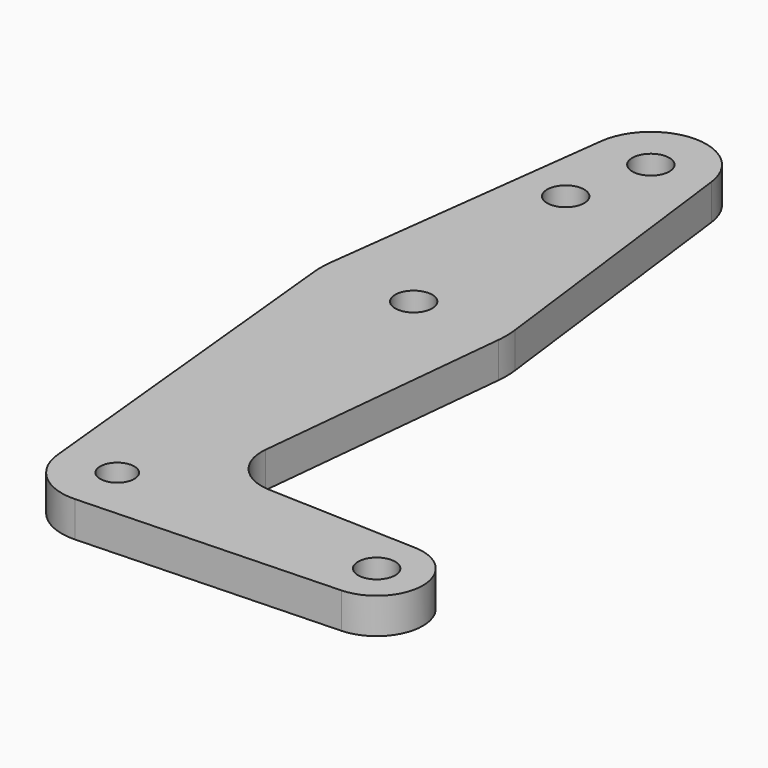
from build123d import *

# Parameters (mm, degrees)
F0_R     = 3.175
F0_R_2   = 2.9230539493
F1_DEPTH = 3.048
F2_DEPTH = 3.048


with BuildPart() as f1:
    # F0 (on Top) → F1 (new body)
    with BuildSketch(Plane.XY):
        with BuildLine():
            ThreePointArc((44.7370962, -7.906889539), (50.1452989497, -5.4922578493), (52.3621, 0))
            ThreePointArc((52.3621, 0), (50.1452989497, 5.4922578493), (44.7370962, 7.906889539))
            ThreePointArc((44.7370962, 7.906889539), (36.5379, 0), (44.7370962, -7.906889539))
        make_face()
        with Locations((44.45, 0)):
            Circle(F0_R, mode=Mode.SUBTRACT)
        with BuildLine():
            ThreePointArc((44.7370962, -7.906889539), (36.5379, 0), (44.7370962, 7.906889539))
            Line((44.7370962, 7.906889539), (18.9619893431, 8.8427740226))
            ThreePointArc((18.9619893431, 8.8427740226), (13.2586380582, 11.5624486569), (11.3401189063, 17.5827584711))
            Line((11.3401189063, 17.5827584711), (15.7954255641, 61.9125))
            ThreePointArc((15.7954255641, 61.9125), (0, 47.625), (-15.7954255641, 61.9125))
            Line((-15.7954255641, 61.9125), (-9.4772553384, -0.9525))
            ThreePointArc((-9.4772553384, -0.9525), (-0.4768479324, 9.5130563464), (9.525, 0))
            ThreePointArc((9.525, 0), (6.8562989262, -6.6118673637), (0.345621515, -9.5187273713))
            Line((0.345621515, -9.5187273713), (44.7370962, -7.906889539))
        make_face()
        with BuildLine():
            ThreePointArc((-9.4772553384, -0.9525), (-6.2603312145, -7.1787100571), (0.345621515, -9.5187273713))
            ThreePointArc((0.345621515, -9.5187273713), (6.8562989262, -6.6118673637), (9.525, 0))
            ThreePointArc((9.525, 0), (-0.4768479324, 9.5130563464), (-9.4772553384, -0.9525))
        make_face()
        Circle(F0_R_2, mode=Mode.SUBTRACT)
        with BuildLine():
            ThreePointArc((-15.7954255641, 61.9125), (0, 47.625), (15.7954255641, 61.9125))
            ThreePointArc((15.7954255641, 61.9125), (15.8550939106, 62.7052534459), (15.875, 63.5))
            ThreePointArc((15.875, 63.5), (15.8438414904, 64.4941387366), (15.7504882737, 65.484375))
            ThreePointArc((15.7504882737, 65.484375), (0, 79.375), (-15.7504882737, 65.484375))
            ThreePointArc((-15.7504882737, 65.484375), (-15.8737438155, 63.6997054867), (-15.7954255641, 61.9125))
        make_face()
        with Locations((0, 63.5)):
            Circle(F0_R, mode=Mode.SUBTRACT)
        with BuildLine():
            Line((-9.4502929642, 115.490625), (-15.7504882737, 65.484375))
            ThreePointArc((-15.7504882737, 65.484375), (0, 79.375), (15.7504882737, 65.484375))
            Line((15.7504882737, 65.484375), (9.4502929642, 115.490625))
            ThreePointArc((9.4502929642, 115.490625), (9.5063048942, 114.896483242), (9.525, 114.3))
            ThreePointArc((9.525, 114.3), (-0.596483242, 104.7936951058), (-9.4502929642, 115.490625))
        make_face()
        with Locations((-3.175, 100.0252)):
            Circle(F0_R, mode=Mode.SUBTRACT)
        with BuildLine():
            ThreePointArc((9.4502929642, 115.490625), (0, 123.825), (-9.4502929642, 115.490625))
            ThreePointArc((-9.4502929642, 115.490625), (-0.596483242, 104.7936951058), (9.525, 114.3))
            ThreePointArc((9.525, 114.3), (9.5063048942, 114.896483242), (9.4502929642, 115.490625))
        make_face()
        with Locations((0, 114.3)):
            Circle(F0_R, mode=Mode.SUBTRACT)
    extrude(amount=F1_DEPTH)

    # F2 (add): a face of the model
    f2_faces = [f1.faces().sort_by_distance(p)[0] for p in [
        (5.1733106321, 46.623199293, 3.048),
    ]]
    extrude(f2_faces, amount=F2_DEPTH)


solid = f1.part
